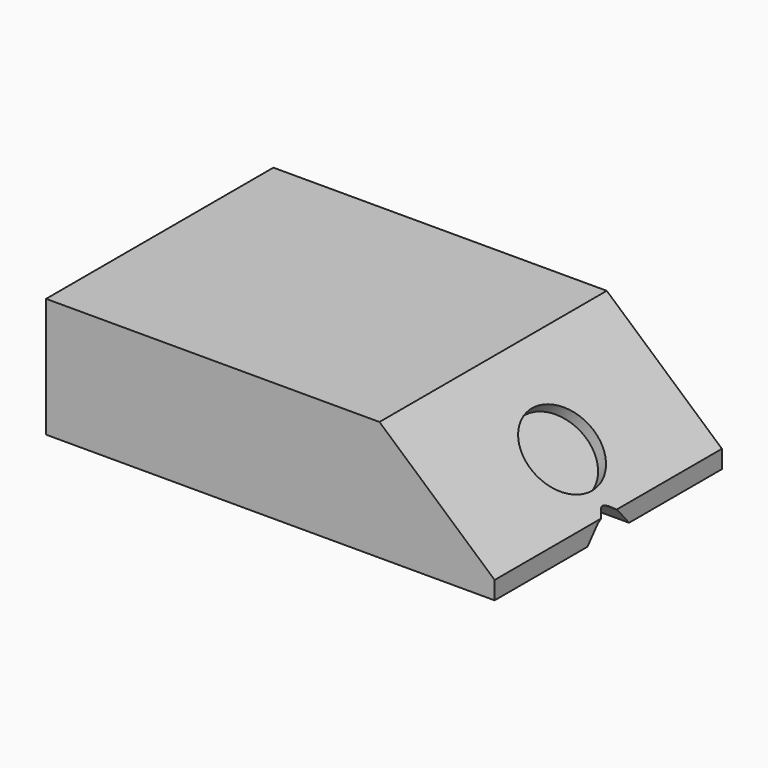
from build123d import *

# Parameters (mm, degrees)
F0_W     = 95.25
F0_H     = 60.3318884472
F1_DEPTH = 25.4
F3_DEPTH = 95.25
F5_DEPTH = 95.25
F6_R     = 8.5166000229
F7_DEPTH = 2.54


with BuildPart() as f1:
    # F0 (on Top) → F1 (new body)
    with BuildSketch(Plane.XY):
        with Locations((6.9396421313, -14.7977671586)):
            Rectangle(F0_W, F0_H)
    extrude(amount=F1_DEPTH)

    # F2 (on face) → F3 (cut)
    with BuildSketch(Plane.YZ.offset(54.5646421313)):
        with BuildLine():
            Line((-17.5997193688, 3.2119287359), (-20.3140247613, 0))
            Line((-20.3140247613, 0), (-14.7977671586, 0))
            Line((-14.7977671586, 0), (-9.2815095559, 0))
            Line((-9.2815095559, 0), (-11.9958061003, 3.2119362131))
            add(Edge.make_bspline(
                [(-17.5997193688, 3.2119287359), (-15.7335996163, 4.4085908758), (-15.1440525404, 5.4683826364), (-13.1693625568, 4.4868656847), (-11.9958061003, 3.2119362131)],
                knots=[0, 0, 0, 0, 0.4999998654, 1, 1, 1, 1], degree=3))
        make_face()
    extrude(amount=-F3_DEPTH, mode=Mode.SUBTRACT)

    # F4 (on face) → F5 (cut)
    with BuildSketch(Plane(origin=(0, 15.368177065, 0), x_dir=(-1, 0, 0), z_dir=(0, 1, 0))):
        Polygon((-60.7218779624, 31.5345525742), (-58.8849112391, 0), (-23.1661610305, 31.5345525742), align=None)
    extrude(amount=-F5_DEPTH, mode=Mode.SUBTRACT)

    # F6 (on face) → F7 (cut)
    with BuildSketch(Plane(origin=(25.7930277101, 0, 29.2154046497), x_dir=(0.7496503208, 0, -0.6618341156), z_dir=(0.6618341156, 0, 0.7496503208))):
        with Locations((25.0689592212, -14.590062201)):
            Circle(F6_R)
    extrude(amount=-F7_DEPTH, mode=Mode.SUBTRACT)


solid = f1.part
